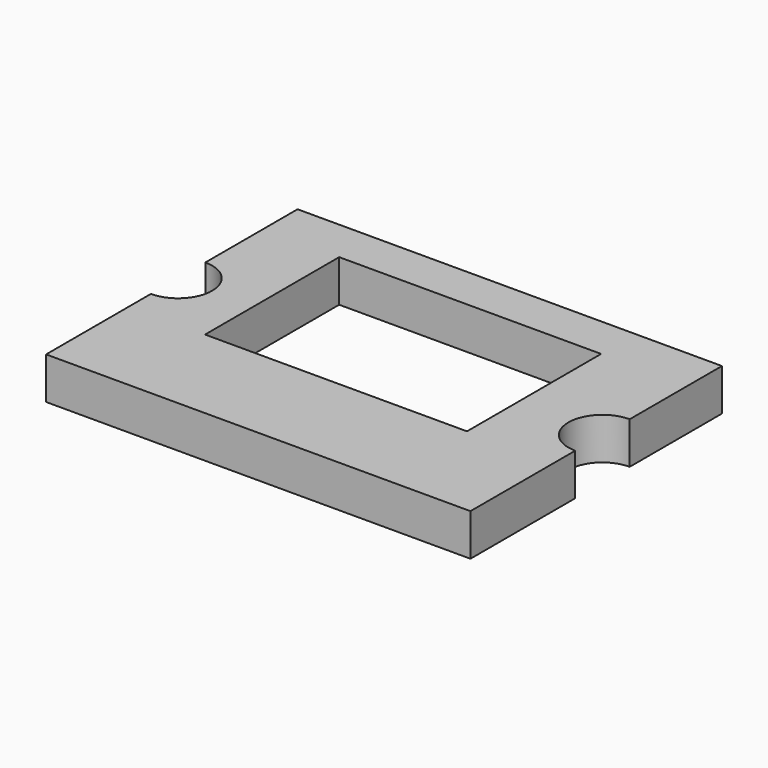
from build123d import *

# Parameters (mm, degrees)
F0_W     = 25
F0_H     = 16
F1_DEPTH = 4


with BuildPart() as f1:
    # F0 (on Top) → F1 (new body)
    with BuildSketch(Plane.XY):
        with BuildLine():
            Line((19.35293, 20.1), (-21.14707, 20.1))
            Line((-21.14707, 20.1), (-21.14707, 9.1))
            ThreePointArc((-21.14707, 9.1), (-17.89707, 5.85), (-21.14707, 2.6))
            Line((-21.14707, 2.6), (-21.14707, -9.9))
            Line((-21.14707, -9.9), (19.35293, -9.9))
            Line((19.35293, -9.9), (19.35293, 2.6))
            ThreePointArc((19.35293, 2.6), (16.10293, 5.85), (19.35293, 9.1))
            Line((19.35293, 9.1), (19.35293, 20.1))
        make_face()
        with Locations((-1.39707, 8)):
            Rectangle(F0_W, F0_H, mode=Mode.SUBTRACT)
    extrude(amount=F1_DEPTH)


solid = f1.part
